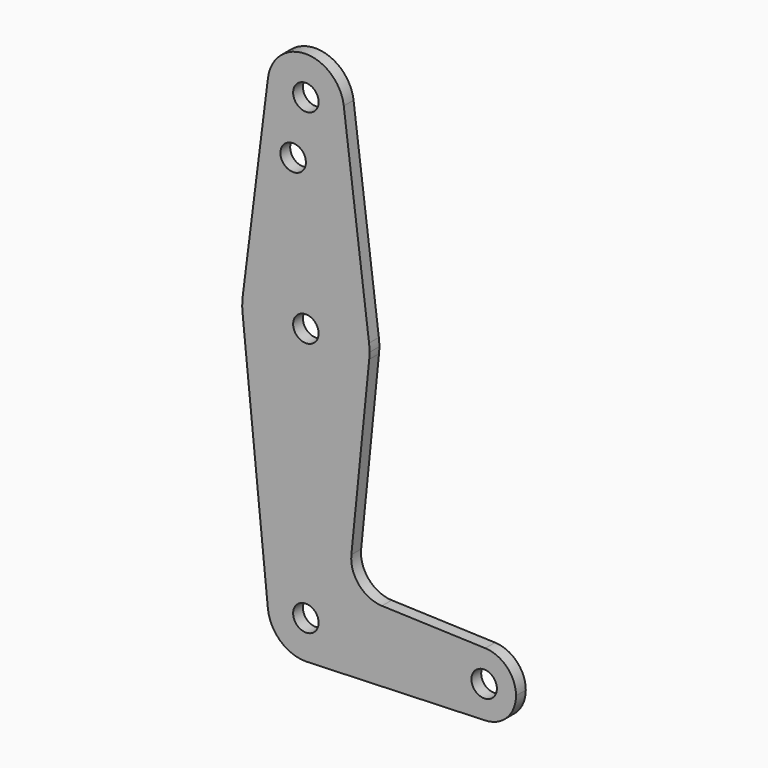
from build123d import *

# Parameters (mm, degrees)
F0_R     = 3.175
F1_DEPTH = 3.048


with BuildPart() as f1:
    # F0 (on Front) → F1 (new body)
    with BuildSketch(Plane.XZ):
        with BuildLine():
            ThreePointArc((9.450293, 115.490625), (0, 123.825), (-9.450293, 115.490625))
            ThreePointArc((-9.450293, 115.490625), (-0.596483, 104.793695), (9.525, 114.3))
            ThreePointArc((9.525, 114.3), (9.506305, 114.896483), (9.450293, 115.490625))
        make_face()
        with Locations((0, 114.3)):
            Circle(F0_R, mode=Mode.SUBTRACT)
        with BuildLine():
            Line((-9.450293, 115.490625), (-15.750488, 65.484375))
            ThreePointArc((-15.750488, 65.484375), (0, 79.375), (15.750488, 65.484375))
            Line((15.750488, 65.484375), (9.450293, 115.490625))
            ThreePointArc((9.450293, 115.490625), (9.506305, 114.896483), (9.525, 114.3))
            ThreePointArc((9.525, 114.3), (-0.596483, 104.793695), (-9.450293, 115.490625))
        make_face()
        with Locations((-3.175, 100.0252)):
            Circle(F0_R, mode=Mode.SUBTRACT)
        with BuildLine():
            ThreePointArc((-9.477255, -0.9525), (-0.476848, 9.513056), (9.525, 0))
            ThreePointArc((9.525, 0), (6.970557, -6.491299), (0.677344, -9.500886))
            Line((0.677344, -9.500886), (44.732405, -7.932475))
            ThreePointArc((44.732405, -7.932475), (36.5125, 0), (44.732405, 7.932475))
            Line((44.732405, 7.932475), (18.968328, 8.849706))
            ThreePointArc((18.968328, 8.849706), (13.261204, 11.567463), (11.340836, 17.589892))
            Line((11.340836, 17.589892), (15.795426, 61.9125))
            ThreePointArc((15.795426, 61.9125), (0, 47.625), (-15.795426, 61.9125))
            Line((-15.795426, 61.9125), (-9.477255, -0.9525))
        make_face()
        with BuildLine():
            ThreePointArc((-15.750488, 65.484375), (-15.873744, 63.699705), (-15.795426, 61.9125))
            ThreePointArc((-15.795426, 61.9125), (0, 47.625), (15.795426, 61.9125))
            ThreePointArc((15.795426, 61.9125), (15.855094, 62.705253), (15.875, 63.5))
            ThreePointArc((15.875, 63.5), (15.843841, 64.494139), (15.750488, 65.484375))
            ThreePointArc((15.750488, 65.484375), (0, 79.375), (-15.750488, 65.484375))
        make_face()
        with Locations((0, 63.5)):
            Circle(F0_R, mode=Mode.SUBTRACT)
        with BuildLine():
            ThreePointArc((0.677344, -9.500886), (6.970557, -6.491299), (9.525, 0))
            ThreePointArc((9.525, 0), (-0.476848, 9.513056), (-9.477255, -0.9525))
            ThreePointArc((-9.477255, -0.9525), (-6.389564, -7.063929), (0, -9.525))
            Line((0, -9.525), (0.677344, -9.500886))
        make_face()
        Circle(F0_R, mode=Mode.SUBTRACT)
        with BuildLine():
            ThreePointArc((44.732405, 7.932475), (36.5125, 0), (44.732405, -7.932475))
            ThreePointArc((44.732405, -7.932475), (50.161633, -5.51191), (52.3875, 0))
            ThreePointArc((52.3875, 0), (50.161633, 5.51191), (44.732405, 7.932475))
        make_face()
        with Locations((44.45, 0)):
            Circle(F0_R, mode=Mode.SUBTRACT)
    extrude(amount=F1_DEPTH)


solid = f1.part
